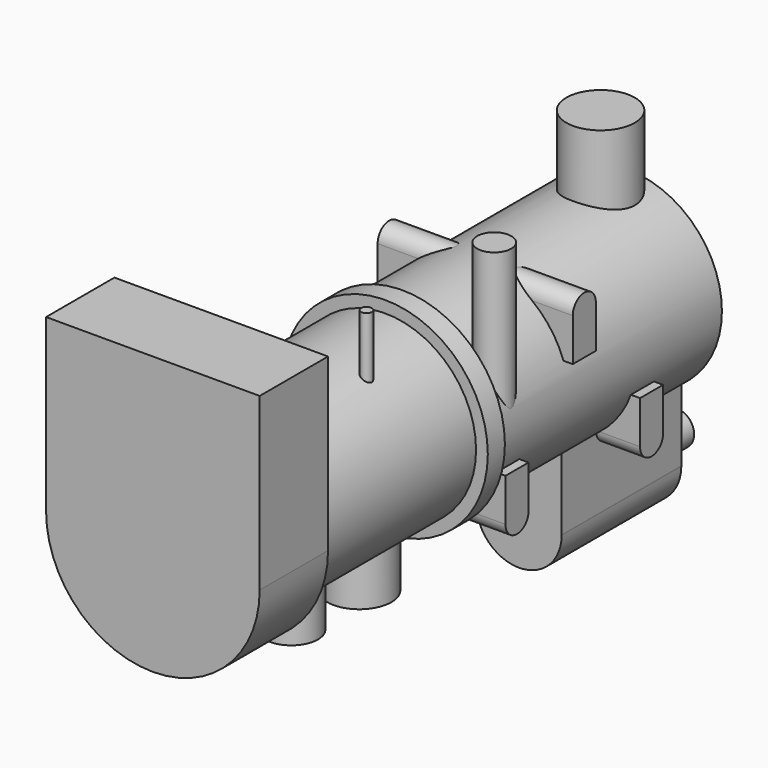
from build123d import *

# Parameters (mm, degrees)
F0_R          = 55.88
F1_DEPTH      = 167.64
F2_R          = 60.96
F3_DEPTH      = 12.7
F4_R          = 53.975
F5_DEPTH      = 121.92
F7_DEPTH      = 50.8
F9_DEPTH      = 58
F9_DEPTH_BACK = 58
F10_R         = 19.05
F10_R_2       = 15.875
F11_DEPTH     = 83.185
F13_DEPTH     = 88.9
F14_R         = 10.16
F15_DEPTH     = 28.575
F16_R         = 20.32
F16_R_2       = 10.16
F17_DEPTH     = 95.25
F18_R         = 3.175
F19_DEPTH     = 82.55


with BuildPart() as f1:
    # F0 (on Front) → F1 (new body)
    with BuildSketch(Plane.XZ):
        Circle(F0_R)
    extrude(amount=-F1_DEPTH)

    # F2 (on face) → F3 (join)
    with BuildSketch(Plane.XZ):
        Circle(F2_R)
    extrude(amount=F3_DEPTH)

    # F4 (on face) → F5 (join)
    with BuildSketch(Plane.XZ.offset(12.7)):
        Circle(F4_R)
    extrude(amount=F5_DEPTH)

    # F6 (on face) → F7 (join)
    with BuildSketch(Plane.XZ.offset(134.62)):
        with BuildLine():
            Line((-63.5, 101.6), (-63.5, 0))
            ThreePointArc((-63.5, 0), (0, -63.5), (63.5, 0))
            Line((63.5, 0), (63.5, 101.6))
            Line((63.5, 101.6), (-63.5, 101.6))
        make_face()
    extrude(amount=F7_DEPTH)

    # F8 (on Right) → F9 (join, two sides)
    with BuildSketch(Plane.YZ) as f9_sk:
        with BuildLine():
            Line((4.1275, -19.05), (4.1275, -44.45))
            ThreePointArc((4.1275, -44.45), (12.7, -53.0225), (21.2725, -44.45))
            Line((21.2725, -44.45), (21.2725, -19.05))
            Line((21.2725, -19.05), (4.1275, -19.05))
        make_face()
        with BuildLine():
            Line((104.1275, -19.05), (104.1275, -44.45))
            ThreePointArc((104.1275, -44.45), (112.7, -53.0225), (121.2725, -44.45))
            Line((121.2725, -44.45), (121.2725, -19.05))
            Line((121.2725, -19.05), (104.1275, -19.05))
        make_face()
        with BuildLine():
            Line((71.2725, 19.0588551614), (71.2725, 44.45))
            ThreePointArc((71.2725, 44.45), (71.2724988566, 44.4544275789), (71.2724954264, 44.4588551567))
            ThreePointArc((71.2724954264, 44.4588551567), (62.6955724211, 53.0224988566), (54.1275, 44.45))
            Line((54.1275, 44.45), (54.1275, 19.0588551614))
            Line((54.1275, 19.0588551614), (71.2725, 19.0588551614))
        make_face()
    extrude(amount=F9_DEPTH)
    extrude(f9_sk.sketch, amount=-F9_DEPTH_BACK)

    # F10 (on Top) → F11 (join)
    with BuildSketch(Plane.XY):
        with Locations((0, -32.004)):
            Circle(F10_R)
        with Locations((0, -82.55)):
            Circle(F10_R_2)
    extrude(amount=-F11_DEPTH)

    # F12 (on face) → F13 (join)
    with BuildSketch(Plane(origin=(0, 167.64, 0), x_dir=(-1, 0, 0), z_dir=(0, 1, 0))):
        with BuildLine():
            Line((-31.749862344, -88.983623604), (-31.749862344, -88.816376396))
            ThreePointArc((-31.749862344, -88.816376396), (-31.75, -88.9), (-31.749862344, -88.983623604))
        make_face()
        with BuildLine():
            Line((-31.749862344, -43.8114739954), (-31.749862344, -88.816376396))
            Line((-31.749862344, -88.816376396), (-31.749862344, -88.983623604))
            ThreePointArc((-31.749862344, -88.983623604), (-5.2997591491, -114.2782779982), (18.9699213952, -86.8846636653))
            Line((18.9699213952, -86.8846636653), (18.9699213952, -43.8114739954))
            Line((18.9699213952, -43.8114739954), (-31.749862344, -43.8114739954))
        make_face()
    extrude(amount=-F13_DEPTH)

    # F14 (on face) → F15 (join)
    with BuildSketch(Plane(origin=(0, 167.64, 0), x_dir=(-1, 0, 0), z_dir=(0, 1, 0))):
        with Locations((-6.35, -88.9)):
            Circle(F14_R)
    extrude(amount=F15_DEPTH)

    # F16 (on Top) → F17 (join)
    with BuildSketch(Plane.XY):
        with Locations((0, 147.32)):
            Circle(F16_R)
        with Locations((44.45, 12.7)):
            Circle(F16_R_2)
    extrude(amount=F17_DEPTH)

    # F18 (on Top) → F19 (join)
    with BuildSketch(Plane.XY):
        with Locations((25.4, -58.42)):
            Circle(F18_R)
    extrude(amount=F19_DEPTH)


solid = f1.part
